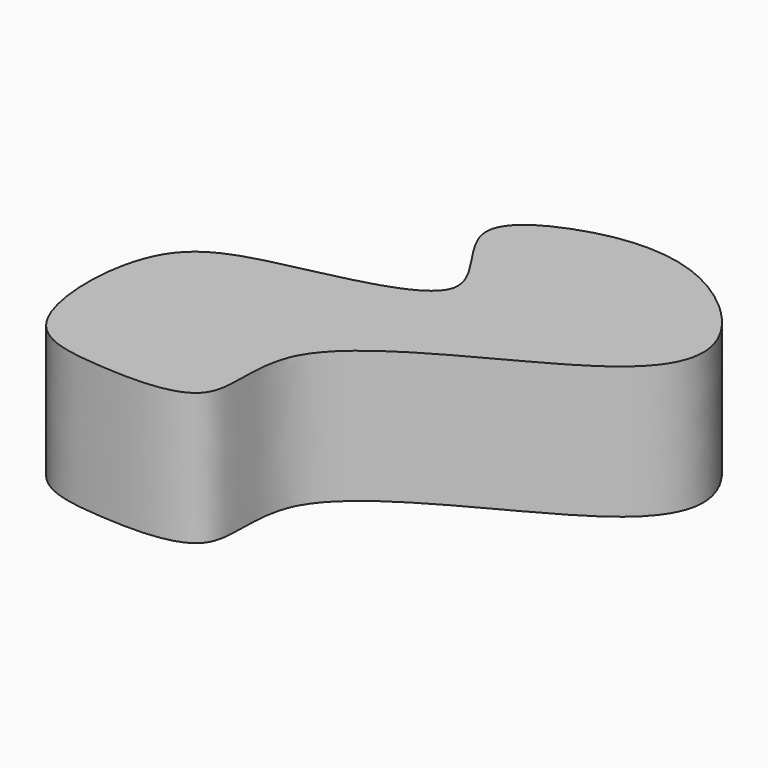
from build123d import *

# Parameters (mm, degrees)
F1_DEPTH = 25.4


with BuildPart() as f1:
    # F0 (on Top) → F1 (new body)
    with BuildSketch(Plane.XY):
        with BuildLine():
            add(Edge.make_bspline(
                [(0, 0), (5.8195618595, 10.6542235198), (41.9296754661, 23.1429570157), (50.5101819182, 42.4663175772), (29.6490326412, 61.6648505794), (7.5914915084, 59.7044108734), (-9.3263369928, 49.0422897725), (14.710636286, 28.1601614533), (-21.8766676788, 21.8141305542), (-40.6178002071, 15.658316763), (-40.376599946, -18.7463383508), (-22.4161872295, -21.7552939073), (2.2305237945, -22.1307646352), (-3.6365649634, -6.6576792033), (0, 0)],
                knots=[0, 0, 0, 0, 0.1232778229, 0.1964066979, 0.2831411121, 0.3677996807, 0.4340494618, 0.5102027738, 0.6020993025, 0.6818806423, 0.7739863618, 0.8463384821, 0.9229653671, 1, 1, 1, 1], degree=3))
        make_face()
    extrude(amount=F1_DEPTH)


solid = f1.part
